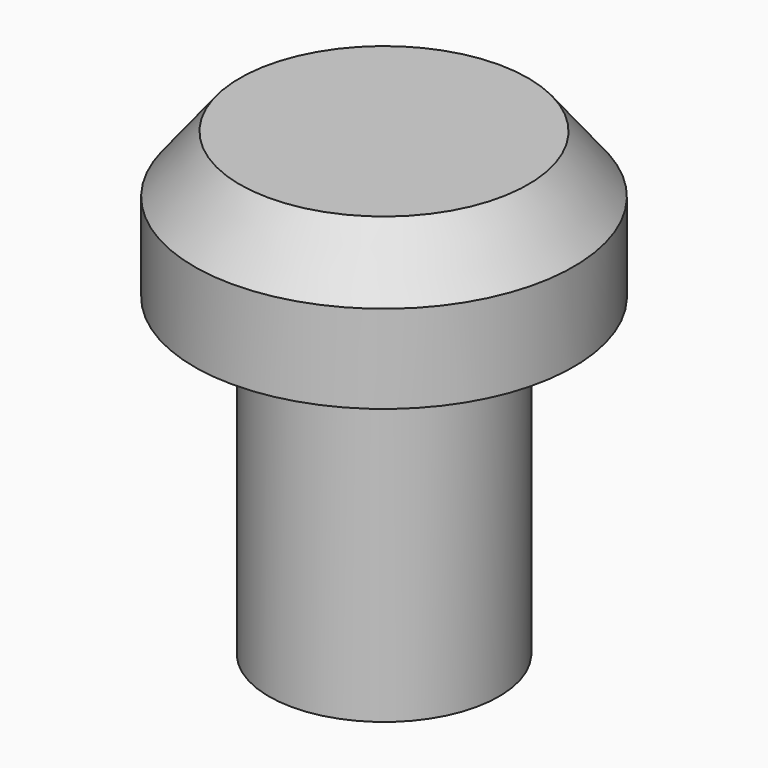
from build123d import *


with BuildPart() as f1:
    # F0 (on Right) → F1 (revolve)
    with BuildSketch(Plane.YZ):
        with BuildLine():
            Line((-19.05, 0), (-12.7, 0))
            Line((-12.7, 0), (-12.7, 48.895))
            ThreePointArc((-12.7, 48.895), (-8.980256, 57.875256), (0, 61.595))
            Line((0, 61.595), (0, 76.2))
            Line((0, 76.2), (-23.871235, 76.2))
            Line((-23.871235, 76.2), (-31.409519, 66.675))
            Line((-31.409519, 66.675), (-31.409519, 52.07))
            Line((-31.409519, 52.07), (-19.05, 52.07))
            Line((-19.05, 52.07), (-19.05, 0))
        make_face()
    revolve(axis=Axis((0, 0, 68.8975), (0, 0, -1)))


solid = f1.part
